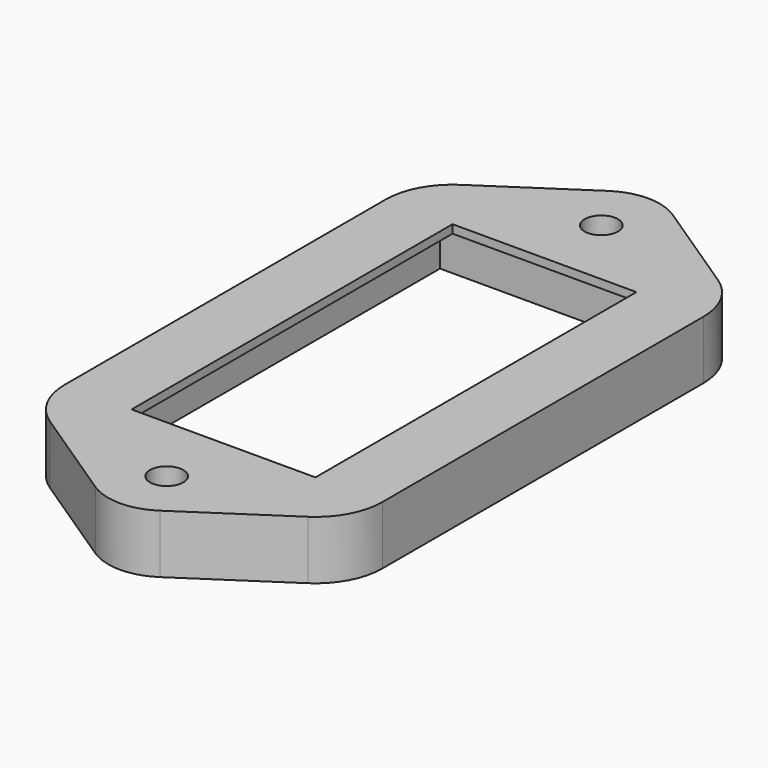
from build123d import *

# Parameters (mm, degrees)
SKETCH_R        = 2
SKETCH_W        = 22
SKETCH_H        = 48
PAD_DEPTH       = 7
SKETCH001_W     = 29.4
SKETCH001_H     = 53.5
POCKET_DEPTH    = 6
SKETCH002_R     = 3.5
POCKET001_DEPTH = 3


with BuildPart() as part:
    # Sketch → Pad (new body)
    with BuildSketch(Plane.XY):
        with BuildLine():
            Line((3.870596, 38.332537), (15.423539, 30.665756))
            ThreePointArc((19, 24), (18.049408, 27.782307), (15.423539, 30.665756))
            Line((19, 24), (19, -24))
            ThreePointArc((15.423539, -30.665756), (18.049408, -27.782307), (19, -24))
            Line((15.423539, -30.665756), (3.870596, -38.332537))
            ThreePointArc((-3.870596, -38.332537), (0, -39.5), (3.870596, -38.332537))
            Line((-3.870596, -38.332537), (-15.423539, -30.665756))
            ThreePointArc((-19, -24), (-18.049408, -27.782307), (-15.423539, -30.665756))
            Line((-19, -24), (-19, 24))
            ThreePointArc((-15.423539, 30.665756), (-18.049408, 27.782307), (-19, 24))
            Line((-15.423539, 30.665756), (-3.870596, 38.332537))
            ThreePointArc((3.870596, 38.332537), (0, 39.5), (-3.870596, 38.332537))
        make_face()
        with Locations((0, 32.5)):
            Circle(SKETCH_R, mode=Mode.SUBTRACT)
        with Locations((0, -32.5)):
            Circle(SKETCH_R, mode=Mode.SUBTRACT)
        Rectangle(SKETCH_W, SKETCH_H, mode=Mode.SUBTRACT)
    extrude(amount=PAD_DEPTH)

    # Sketch001 → Pocket (cut)
    with BuildSketch(Plane.XY):
        Rectangle(SKETCH001_W, SKETCH001_H)
    extrude(amount=POCKET_DEPTH, mode=Mode.SUBTRACT)

    # Sketch002 (on Face4 of Pocket) → Pocket001 (cut)
    with BuildSketch(Plane(origin=(0, 0, 0), x_dir=(1, 0, 0), z_dir=(0, 0, -1))):
        with Locations((0, -32.5)):
            Circle(SKETCH002_R)
        with Locations((0, 32.5)):
            Circle(SKETCH002_R)
    extrude(amount=-POCKET001_DEPTH, mode=Mode.SUBTRACT)


solid = part.part
